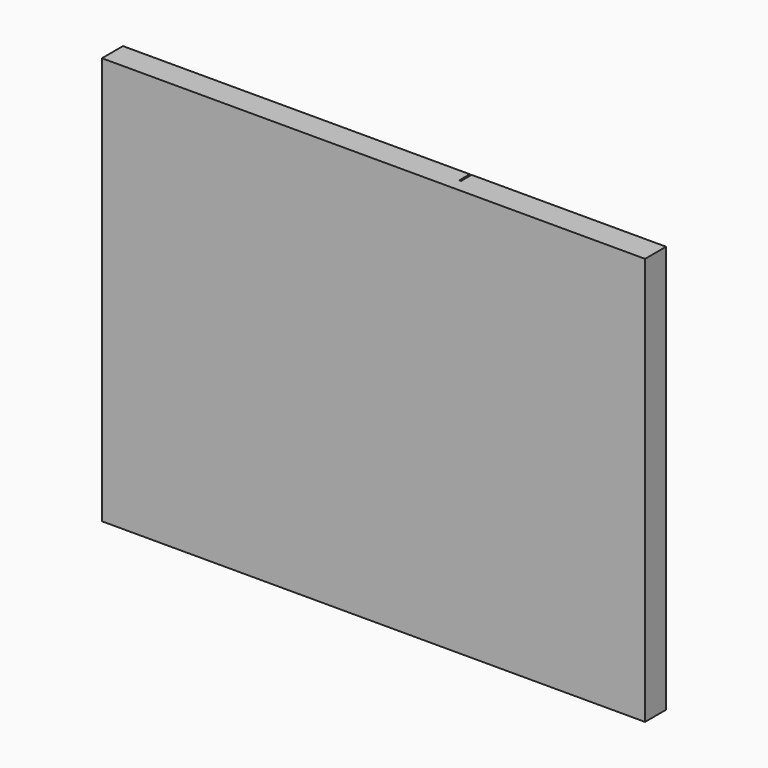
from build123d import *

# Parameters (mm, degrees)
F1_DEPTH = 116.35


with BuildPart() as f1:
    # F0 (on Top) → F1 (new body, symmetric)
    with BuildSketch(Plane.XY):
        Polygon((-281.8700969219, -7.5), (28.1299030781, -7.5), (28.1299030781, 7.5), (-82.8700969219, 7.5), (-82.8700969219, 0), (-83.8700969219, 0), (-83.8700969219, 7.5), (-281.8700969219, 7.5), align=None)
    extrude(amount=F1_DEPTH, both=True)


solid = f1.part
